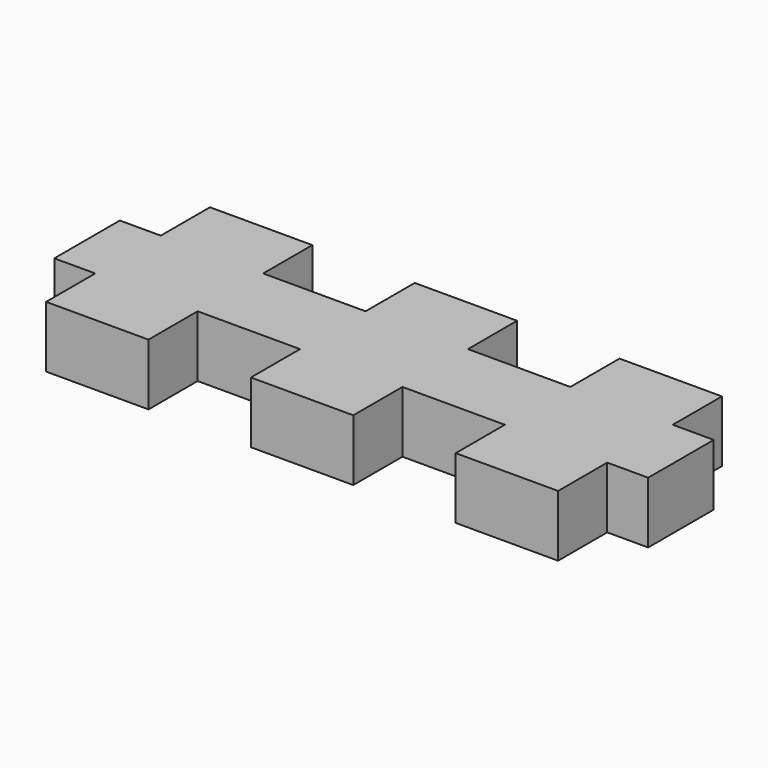
from build123d import *

# Parameters (mm, degrees)
F1_DEPTH = 7.62


with BuildPart() as f1:
    # F0 (on Top) → F1 (new body)
    with BuildSketch(Plane.XY):
        Polygon((17.78, 0), (5.08, 0), (5.08, -7.62), (0, -7.62), (0, -17.78), (5.08, -17.78), (5.08, -25.4), (17.78, -25.4), (17.78, -17.78), (30.48, -17.78), (30.48, -25.4), (43.18, -25.4), (43.18, -17.78), (55.88, -17.78), (55.88, -25.4), (68.58, -25.4), (68.58, -17.78), (73.66, -17.78), (73.66, -7.62), (68.58, -7.62), (68.58, 0), (55.88, 0), (55.88, -7.62), (43.18, -7.62), (43.18, 0), (30.48, 0), (30.48, -7.62), (17.78, -7.62), align=None)
    extrude(amount=F1_DEPTH)


solid = f1.part
